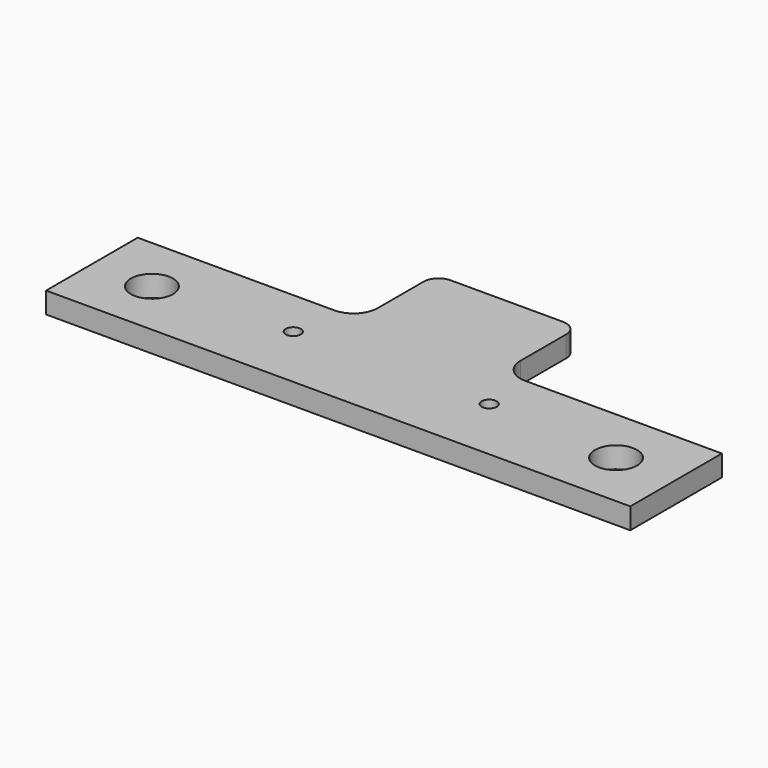
from build123d import *

# Parameters (mm, degrees)
CYLINDER005_R     = 2.5
CYLINDER005_DEPTH = 90
CYLINDER004_R     = 7
CYLINDER004_DEPTH = 150
CYLINDER003_R     = 11
CYLINDER003_DEPTH = 31
PAD010_DEPTH      = 7


with BuildPart() as vis_d:
    # Cylinder005 → Cylinder005 (new body)
    with BuildSketch(Plane(origin=(32.5, 0, -12), x_dir=(1, 0, 0), z_dir=(0, 0, 1))):
        Circle(CYLINDER005_R)
    extrude(amount=CYLINDER005_DEPTH)


with BuildPart() as vis:
    # Part__Mirroring003: instance of vis_d
    add(vis_d.part.mirror(Plane(origin=(0, 0, 0), x_dir=(0, -1, 0), z_dir=(1, 0, 0))))

    # Fusion005: union vis_d
    add(vis_d.part)


with BuildPart() as axe:
    # Cylinder004 → Cylinder004 (new body)
    with BuildSketch(Plane.XY.offset(-50)):
        Circle(CYLINDER004_R)
    extrude(amount=CYLINDER004_DEPTH)


with BuildPart() as clone_of_ball_slider:
    # Cylinder003 → Cylinder003 (new body)
    with BuildSketch(Plane.XY):
        Circle(CYLINDER003_R)
    extrude(amount=CYLINDER003_DEPTH)

    # Fusion003: union axe
    add(axe.part)


with BuildPart() as clone_of_ball_slider_1:
    # Clone017 placement: moved
    add(clone_of_ball_slider.part.moved(Location((-77, -3, 13))))


with BuildPart() as part_mirroring002:
    # Part__Mirroring002: instance of Clone of ball slider
    add(clone_of_ball_slider_1.part.mirror(Plane(origin=(0, 0, 0), x_dir=(0, -1, 0), z_dir=(1, 0, 0))))


with BuildPart() as vis_sliders:
    # Fusion004 base: copy of Clone of ball slider
    add(clone_of_ball_slider_1.part)

    # Fusion004: union Part__Mirroring002
    add(part_mirroring002.part)

    # Fusion006: union vis
    add(vis.part)


with BuildPart() as cut006007:
    # Sketch → Pad010 (new body)
    with BuildSketch(Plane.XY.offset(25)):
        with BuildLine():
            Line((96.936684, 16), (96.936684, -22))
            Line((96.936684, -22), (-96.936684, -22))
            Line((-96.936684, -22), (-96.936684, 16))
            Line((-96.936684, 16), (-31.668603, 16))
            ThreePointArc((-31.668603, 16), (-26.011749, 18.343146), (-23.668603, 24))
            Line((-23.668603, 24), (-23.668603, 42.983311))
            ThreePointArc((-18.668603, 47.983311), (-22.204137, 46.518845), (-23.668603, 42.983311))
            Line((-18.668603, 47.983311), (18.668603, 47.983311))
            ThreePointArc((23.668603, 42.983311), (22.204137, 46.518845), (18.668603, 47.983311))
            Line((23.668603, 42.983311), (23.668603, 24))
            ThreePointArc((23.668603, 24), (26.011749, 18.343146), (31.668603, 16))
            Line((31.668603, 16), (96.936684, 16))
        make_face()
    extrude(amount=PAD010_DEPTH)


with BuildPart() as cut006007_1:
    # Clone015 placement: moved
    add(cut006007.part.moved(Location((0, 0, 32))))

    # Cut006007: cut vis sliders
    add(vis_sliders.part, mode=Mode.SUBTRACT)


solid = cut006007_1.part
